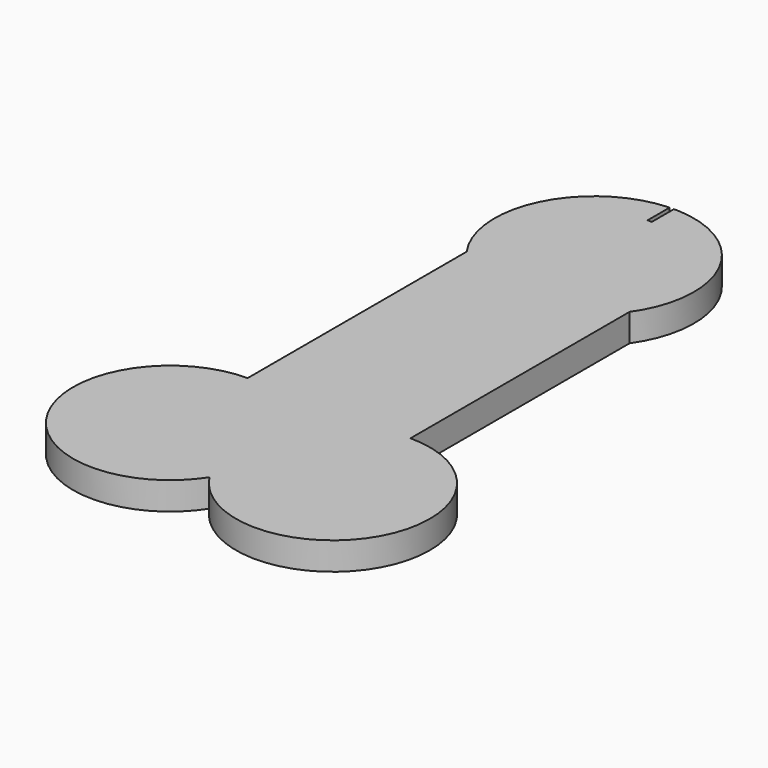
from build123d import *

# Parameters (mm, degrees)
F1_DEPTH = 5


with BuildPart() as f1:
    # F0 (on Top) → F1 (new body)
    with BuildSketch(Plane.XY):
        with BuildLine():
            Line((14.701757, -17.821519), (14.701757, 31.603123))
            ThreePointArc((14.701757, 31.603123), (16.224064, 49.811273), (1.041059, 59.976434))
            Line((1.041059, 59.976434), (0, 59.976434))
            Line((0, 59.976434), (0, 55.009447))
            Line((0, 55.009447), (-0.774187, 55.009447))
            Line((-0.774187, 55.009447), (-0.774187, 59.976434))
            Line((-0.774187, 59.976434), (-1.041059, 59.976434))
            ThreePointArc((-1.041059, 59.976434), (-16.224064, 49.811273), (-14.701757, 31.603123))
            Line((-14.701757, 31.603123), (-14.701757, -17.821519))
            ThreePointArc((-14.701757, -17.821519), (-30.07006, -43.692018), (0, -44.81406))
            ThreePointArc((0, -44.81406), (30.07006, -43.692018), (14.701757, -17.821519))
        make_face()
    extrude(amount=F1_DEPTH)


solid = f1.part
